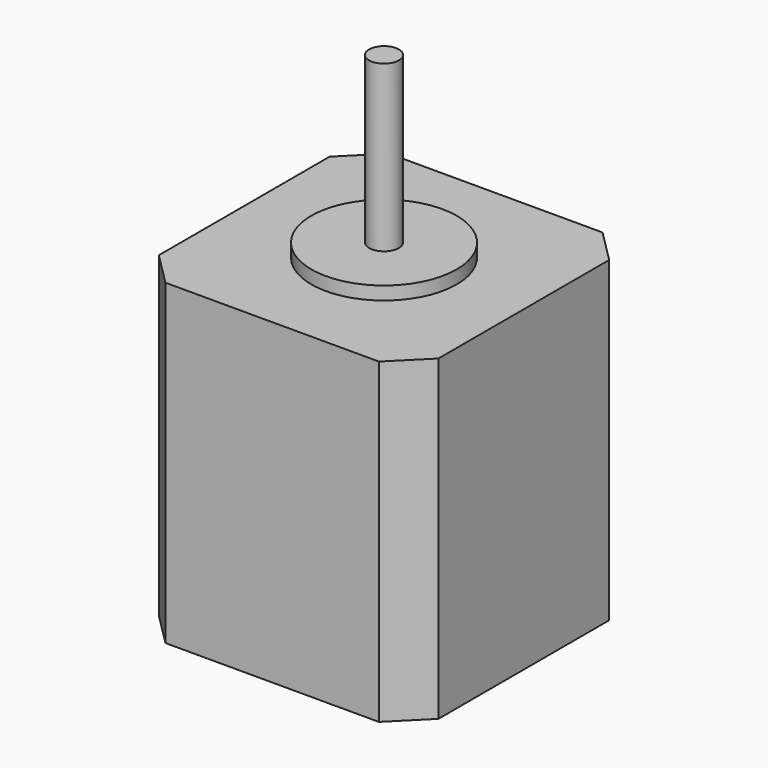
from build123d import *

# Parameters (mm, degrees)
F1_DEPTH = 48
F2_W     = 16
F2_H     = 6.5
F3_DEPTH = 11
F4_R     = 11
F5_DEPTH = 2
F6_R     = 2.25
F7_DEPTH = 25


with BuildPart() as f1:
    # F0 (on Top) → F1 (new body)
    with BuildSketch(Plane.XY):
        Polygon((16.15, 21.15), (-16.15, 21.15), (-21.15, 16.15), (-21.15, -16.15), (-16.15, -21.15), (16.15, -21.15), (21.15, -16.15), (21.15, 16.15), align=None)
    extrude(amount=F1_DEPTH)

    # F2 (on Top) → F3 (join)
    with BuildSketch(Plane.XY):
        with Locations((0, 24.4)):
            Rectangle(F2_W, F2_H)
    extrude(amount=F3_DEPTH)

    # F4 (on face) → F5 (join)
    with BuildSketch(Plane.XY.offset(48)):
        Circle(F4_R)
    extrude(amount=F5_DEPTH)

    # F6 (on face) → F7 (join)
    with BuildSketch(Plane.XY.offset(50)):
        Circle(F6_R)
    extrude(amount=F7_DEPTH)


solid = f1.part
